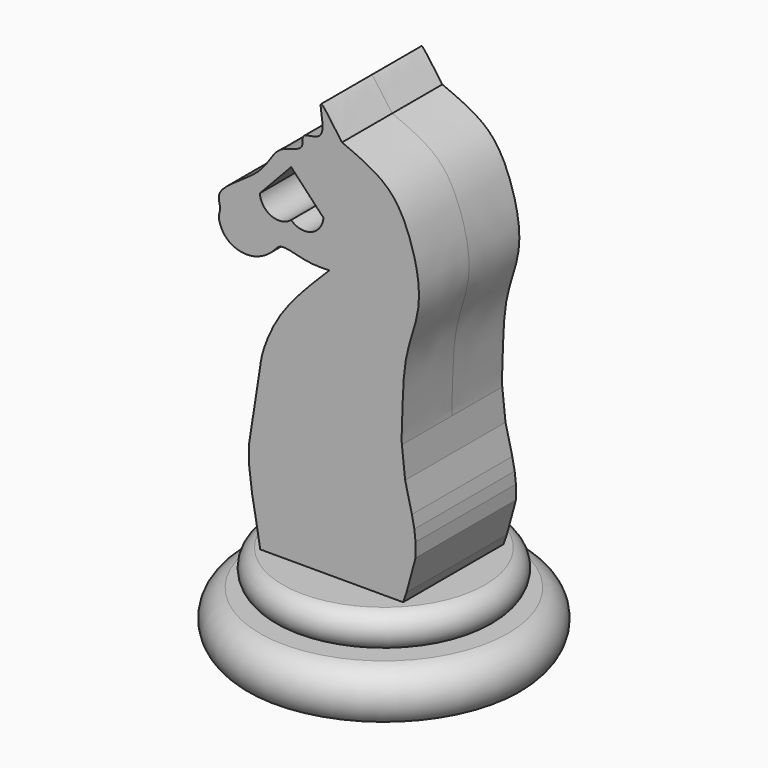
from build123d import *

# Parameters (mm, degrees)
F2_DEPTH = 10.16
F3_DEPTH = 12.7
F5_DEPTH = 7.62


with BuildPart() as f2:
    # F1 (on Front) → F2 (new body, symmetric)
    with BuildSketch(Plane.XZ):
        with BuildLine():
            Line((10.5554129264, -18.5494795613), (10.0269762871, -13.6533912724))
            add(Edge.make_bspline(
                [(10.0269762871, -13.6533912724), (9.9254772442, -12.808107328), (10.1627458289, -10.1990172424), (10.1383309556, -1.2004898982), (12.6200332011, 4.8519194563), (13.0504278143, 10.1814444052), (11.2656074053, 17.1447808987), (7.9539143316, 23.094300054), (2.9431047731, 25.2055068541), (0.322809949, 26.3080072907)],
                knots=[0, 0, 0, 0, 0.1020599974, 0.2714700022, 0.4169325904, 0.5449768144, 0.6949070669, 0.8393231053, 1, 1, 1, 1], degree=3))
            add(Edge.make_bspline(
                [(0.322809949, 26.3080072907), (-1.5024831933, 28.720163548), (-4.231610095, 33.2683857963), (-1.6917140249, 25.0896627897), (-6.6449753237, 25.8932149649), (-5.4654742501, 22.8732763259), (-10.5614446883, 22.6387844312), (-12.0591221595, 17.3621015904), (-20.6463557667, 13.3606773003), (-19.1082883249, 10.4846652121), (-19.938818729, 9.3021340453), (-18.6133432439, 5.8182242429), (-14.0534651128, 4.7637056946), (-10.7694021128, 6.987525174), (-10.0775546031, 8.1091317783), (-9.499375634, 8.2309765589)],
                knots=[0, 0, 0, 0, 0.0832708927, 0.1568621971, 0.2179468105, 0.2641512011, 0.3321104616, 0.4146452453, 0.5168874372, 0.5687815807, 0.6081358017, 0.6711671438, 0.7444800735, 0.8130153998, 0.8596181504, 0.8596181504, 0.8596181504, 0.8596181504], degree=3))
            add(Edge.make_bspline(
                [(-9.499375634, 8.2309765589), (-8.6377623617, 8.4125519635), (-5.5577140638, 7.2886481795), (-3.0220120214, 7.346641699), (-1.7337704123, 7.3760862665)],
                knots=[0.8596181504, 0.8596181504, 0.8596181504, 0.8596181504, 0.9290664537, 1, 1, 1, 1], degree=3))
            add(Edge.make_bspline(
                [(-6.3651104475, 2.6030058508), (-4.990357688, 4.1296961302), (-3.3871403251, 5.7281450318), (-1.7337704123, 7.3760862665)],
                knots=[0.7129188453, 0.7129188453, 0.7129188453, 0.7129188453, 1, 1, 1, 1], degree=3))
            add(Edge.make_bspline(
                [(-12.8330237129, -9.2994246634), (-12.6694164236, -7.9278284548), (-11.343574751, -4.4011680917), (-9.4410453546, -1.0622243971), (-7.5290863025, 1.3103875156), (-6.3651104475, 2.6030058508)],
                knots=[0, 0, 0, 0, 0.2482783386, 0.4698529339, 0.7129188453, 0.7129188453, 0.7129188453, 0.7129188453], degree=3))
            Line((-12.8330237129, -9.2994246634), (-13.4257735625, -13.2197056836))
            Line((-13.4257735625, -13.2197056836), (-14.7051820531, -21.3795939607))
            Line((-14.7051820531, -21.3795939607), (-14.7051820531, -24.7532725621))
            Line((-14.7051820531, -24.7532725621), (-14.2281828448, -28.597170487))
            Line((-14.2281828448, -28.597170487), (-13.5359987617, -32.4041992426))
            Line((-13.5359987617, -32.4041992426), (-12.8330237129, -36.6051177269))
            Line((-12.8330237129, -36.6051177269), (10.0269762871, -36.6051177269))
            Line((10.0269762871, -36.6051177269), (10.7636962305, -34.5133474029))
            Line((10.7636962305, -34.5133474029), (12.2401098008, -29.0717527703))
            Line((12.2401098008, -29.0717527703), (12.2401098008, -26.8249964274))
            Line((12.2401098008, -26.8249964274), (12.0364421266, -25.0293245472))
            Line((12.0364421266, -25.0293245472), (11.6518702296, -23.0571378168))
            Line((11.6518702296, -23.0571378168), (10.5554129264, -18.5494795613))
        make_face()
    extrude(amount=F2_DEPTH, both=True)

    # F0 (on Front) → F3 (cut, symmetric)
    with BuildSketch(Plane.XZ):
        with BuildLine():
            ThreePointArc((-12.9782501608, 14.7305373102), (-11.110829069, 12.0912211304), (-7.911986011, 12.5609599102))
            ThreePointArc((-7.911986011, 12.5609599102), (-4.6571143713, 11.9027347915), (-2.6844578886, 14.5740782921))
            Line((-2.6844578886, 14.5740782921), (-7.911986011, 20.1182057915))
            Line((-7.911986011, 20.1182057915), (-12.9782501608, 14.7305373102))
        make_face()
    extrude(amount=F3_DEPTH, both=True, mode=Mode.SUBTRACT)

    # F4 (on Front) → F5 (cut, symmetric)
    with BuildSketch(Plane.XZ):
        with BuildLine():
            add(Edge.make_bspline(
                [(-3.2776971348, 17.7423600107), (-3.1712084857, 17.8698898668), (-3.8061112165, 18.3397222168), (-3.4170336615, 19.3179792004), (-3.4907541645, 20.9130550981), (-3.6722273176, 22.2987340557), (-3.8296949872, 23.9433377408), (-3.5730017716, 24.5943262628), (-4.4253551033, 25.2910713282), (-3.2953877587, 25.641693645), (-2.870224182, 25.5466057694), (-2.2185648699, 25.0418967646), (-1.1329080011, 24.6786210935), (-1.3543289316, 23.658135887), (-0.3830221548, 22.9852620262), (0.3438061842, 22.1566766612), (1.0854547676, 21.1263761553), (2.2594298282, 19.2669361664), (3.4153453345, 18.6759846001), (3.4716748632, 17.7423600107)],
                knots=[0, 0, 0, 0, 0.0451172044, 0.1013185163, 0.1723626086, 0.2416665816, 0.3132716431, 0.3587291597, 0.4061138085, 0.4573394977, 0.4959335212, 0.5470001493, 0.603743586, 0.6546466754, 0.7134116206, 0.772879823, 0.8367945703, 0.919182557, 1, 1, 1, 1], degree=3))
            Line((-3.2776971348, 17.7423600107), (3.4716748632, 17.7423600107))
        make_face()
    extrude(amount=F5_DEPTH, both=True, mode=Mode.SUBTRACT)


with BuildPart() as f7:
    # F6 (on Front) → F7 (revolve)
    with BuildSketch(Plane.XZ):
        with BuildLine():
            Line((-1.0160000529, -36.0477361359), (-1.0160000529, -49.4656413794))
            Line((-1.0160000529, -49.4656413794), (19.0718770629, -49.4656413794))
            Line((19.0718770629, -49.4656413794), (20.9549999471, -49.4656413794))
            ThreePointArc((20.9549999471, -49.4656413794), (22.3572585171, -45.0403309852), (19.0718770629, -41.7607014508))
            Line((19.0718770629, -41.7607014508), (15.3569968324, -41.7607014508))
            ThreePointArc((15.3569968324, -41.7607014508), (17.4890183102, -38.9042187934), (15.3569968324, -36.0477361359))
            Line((15.3569968324, -36.0477361359), (10.5426595196, -36.0477361359))
            Line((10.5426595196, -36.0477361359), (-1.0160000529, -36.0477361359))
        make_face()
    revolve(axis=Axis((-1.0160000529, 0, -9.3845678493), (0, 0, 1)))


solid = Compound([f2.part, f7.part])
